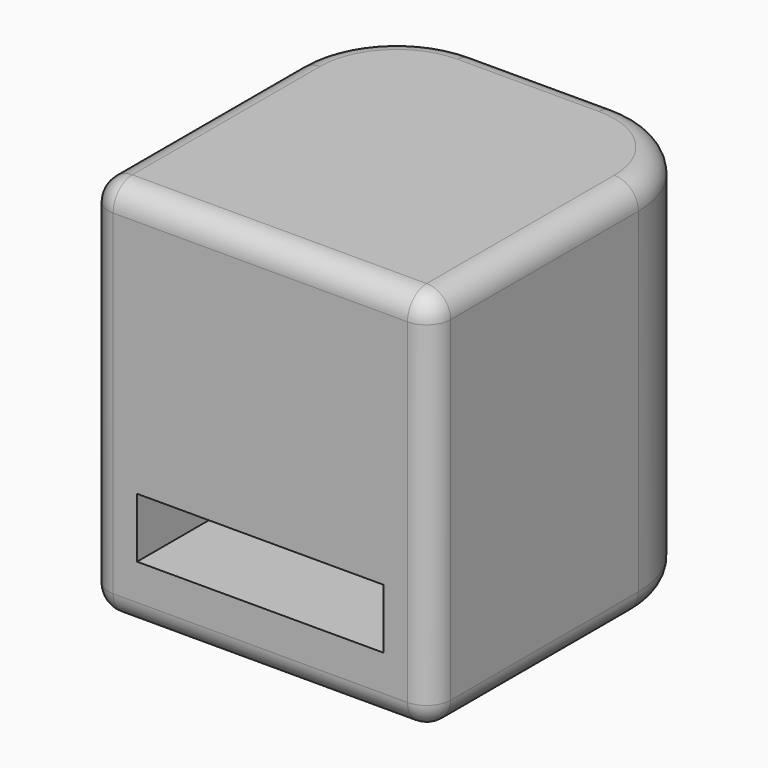
from build123d import *

# Parameters (mm, degrees)
PAD002_DEPTH = 16
POCKET_DEPTH = 2.5
FILLET001_R  = 1


with BuildPart() as part:
    # Sketch003 → Pad002 (new body)
    with BuildSketch(Plane.XY):
        with BuildLine():
            Line((7.15, -7.803847), (-7.15, -7.803847))
            Line((-7.15, -7.803847), (-7.15, 3))
            ThreePointArc((-2.95, 7.2), (-5.919848, 5.969848), (-7.15, 3))
            Line((-2.95, 7.2), (2.95, 7.2))
            ThreePointArc((7.15, 3), (5.919848, 5.969848), (2.95, 7.2))
            Line((7.15, 3), (7.15, -7.803847))
        make_face()
    extrude(amount=PAD002_DEPTH)

    # Sketch004 → Pocket (cut)
    with BuildSketch(Plane.XY.offset(2.5)):
        with BuildLine():
            ThreePointArc((-2.95, 5.2), (-4.505635, 4.555635), (-5.15, 3))
            Line((-5.15, 1), (-5.15, 3))
            ThreePointArc((-5.15, -0.6), (-4.75, 0.2), (-5.15, 1))
            Line((-5.15, -7.803847), (-5.15, -0.6))
            Line((5.15, -7.803847), (-5.15, -7.803847))
            Line((5.15, -0.6), (5.15, -7.803847))
            ThreePointArc((5.15, 1), (4.75, 0.2), (5.15, -0.6))
            Line((5.15, 3), (5.15, 1))
            ThreePointArc((5.15, 3), (4.505635, 4.555635), (2.95, 5.2))
            Line((-2.95, 5.2), (2.95, 5.2))
        make_face()
    extrude(amount=POCKET_DEPTH, mode=Mode.SUBTRACT)

    # Fillet001
    fillet001_edges = [part.edges().sort_by_distance(p)[0] for p in [
        (-5.919848, 5.969848, 0),
        (-5.919848, 5.969848, 16),
        (-7.15, -7.803847, 8),
        (7.15, -7.803847, 8),
        (0, -7.803847, 16),
        (0, -7.803847, 0),
    ]]
    fillet(fillet001_edges, radius=FILLET001_R)


solid = part.part
